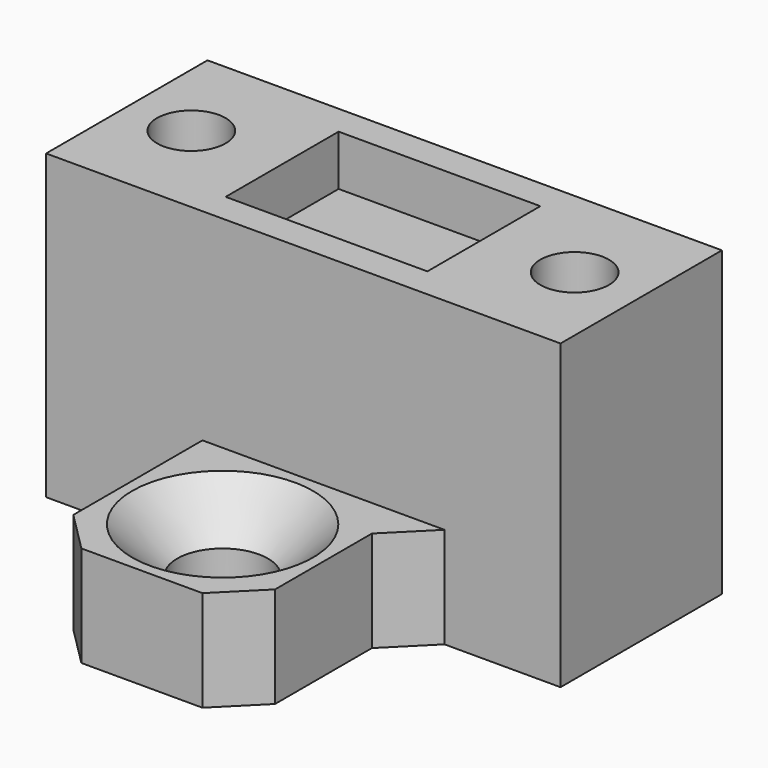
from build123d import *

# Parameters (mm, degrees)
F0_W           = 25.5
F0_H           = 10
F1_DEPTH       = 15
F2_D           = 3.4
F3_W           = 10
F3_H           = 7
F4_DEPTH       = 2.5
F5_W           = 10
F5_H           = 10
F6_DEPTH       = 5
F8_D           = 4.5
F8_CSINK_D     = 8.96
F8_CSINK_ANGLE = 90
F9_SIZE        = 2
F11_DEPTH      = 2.5


with BuildPart() as f1:
    # F0 (on Top) → F1 (new body)
    with BuildSketch(Plane.XY):
        Rectangle(F0_W, F0_H)
    extrude(amount=-F1_DEPTH)

    # F2 (through all)
    with Locations(Plane.XY):
        with Locations((-9.55, 0), (9.45, 0)):
            Hole(F2_D / 2)

    # F3 (on face) → F4 (cut)
    with BuildSketch(Plane.XY):
        with Locations((-0.05, 0)):
            Rectangle(F3_W, F3_H)
    extrude(amount=-F4_DEPTH, mode=Mode.SUBTRACT)

    # F5 (on face) → F6 (join)
    with BuildSketch(Plane(origin=(0, 0, -15), x_dir=(1, 0, 0), z_dir=(0, 0, -1))):
        with Locations((0, 10)):
            Rectangle(F5_W, F5_H)
        with Locations((0, -10)):
            Rectangle(F5_W, F5_H)
    extrude(amount=-F6_DEPTH)

    # F8 (through all)
    with Locations(Plane.XY.offset(-10)):
        with Locations((0, -10), (0, 10)):
            CounterSinkHole(F8_D / 2, F8_CSINK_D / 2, counter_sink_angle=F8_CSINK_ANGLE)

    # F9
    f9_edges = [f1.edges().sort_by_distance(p)[0] for p in [
        (-5, 15, -12.5),
        (5, 15, -12.5),
        (5, 5, -12.5),
        (-5, 5, -12.5),
        (5, -5, -12.5),
        (5, -15, -12.5),
        (-5, -15, -12.5),
    ]]
    chamfer(f9_edges, length=F9_SIZE)

    # F10 (on face) → F11 (cut)
    with BuildSketch(Plane(origin=(0, 0, -15), x_dir=(1, 0, 0), z_dir=(0, 0, -1))):
        Polygon((6.7653212483, -1.55), (9.45, -3.1), (12.1346787517, -1.55), (12.1346787517, 1.55), (9.45, 3.1), (6.7653212483, 1.55), align=None)
        Polygon((-12.1346787517, -1.55), (-9.45, -3.1), (-6.7653212483, -1.55), (-6.7653212483, 1.55), (-9.45, 3.1), (-12.1346787517, 1.55), align=None)
    extrude(amount=-F11_DEPTH, mode=Mode.SUBTRACT)


solid = f1.part
